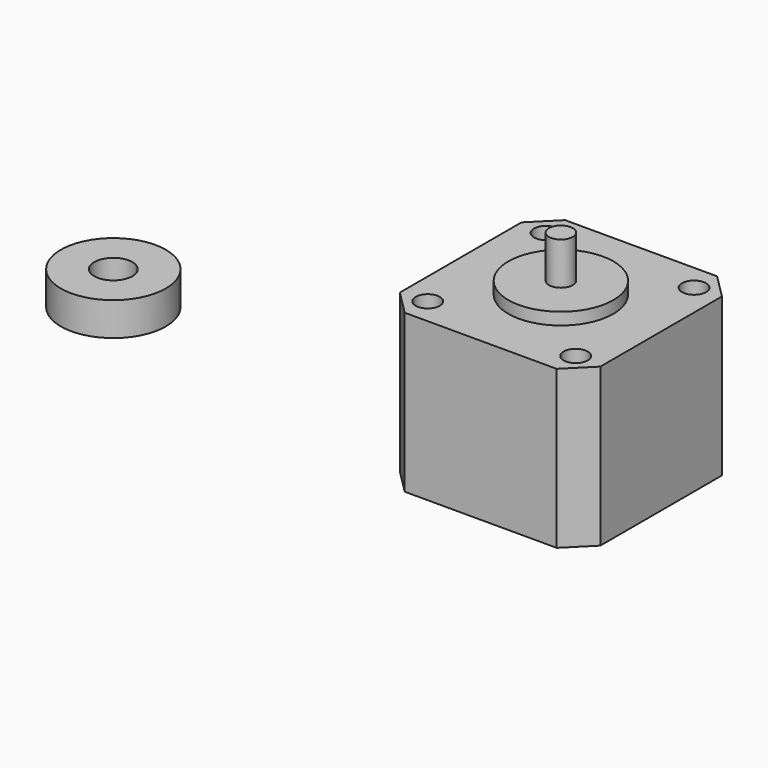
from build123d import *

# Parameters (mm, degrees)
F0_R     = 11
F0_R_2   = 4
F1_DEPTH = 7
F2_W     = 42
F2_H     = 42
F2_R     = 2.528972
F2_R_2   = 11
F3_DEPTH = 33.02
F2_R_3   = 2.5
F4_DEPTH = 35.56
F5_DEPTH = 44.45
F6_SIZE  = 5.08


with BuildPart() as f1:
    # F0 (on Top) → F1 (new body)
    with BuildSketch(Plane.XY):
        with Locations((-49.858671, 22.613496)):
            Circle(F0_R)
        with Locations((-49.858671, 22.613496)):
            Circle(F0_R_2, mode=Mode.SUBTRACT)
    extrude(amount=F1_DEPTH)


with BuildPart() as f3:
    # F2 (on Top) → F3 (new body)
    with BuildSketch(Plane.XY):
        with Locations((44.154914, 22.30631)):
            Rectangle(F2_W, F2_H)
        with Locations((28.654914, 6.80631)):
            Circle(F2_R, mode=Mode.SUBTRACT)
        with Locations((59.654914, 6.80631)):
            Circle(F2_R, mode=Mode.SUBTRACT)
        with Locations((28.654914, 37.80631)):
            Circle(F2_R, mode=Mode.SUBTRACT)
        with Locations((44.154914, 22.30631)):
            Circle(F2_R_2, mode=Mode.SUBTRACT)
        with Locations((59.654914, 37.80631)):
            Circle(F2_R, mode=Mode.SUBTRACT)
    extrude(amount=F3_DEPTH)

    # F2 (on Top) → F4 (join)
    with BuildSketch(Plane.XY):
        with Locations((44.154914, 22.30631)):
            Circle(F2_R_2)
        with Locations((44.154914, 22.30631)):
            Circle(F2_R_3, mode=Mode.SUBTRACT)
    extrude(amount=F4_DEPTH)

    # F2 (on Top) → F5 (join)
    with BuildSketch(Plane.XY):
        with Locations((44.154914, 22.30631)):
            Circle(F2_R_3)
    extrude(amount=F5_DEPTH)

    # F6
    f6_edges = [f3.edges().sort_by_distance(p)[0] for p in [
        (23.154914, 43.30631, 16.51),
        (23.154914, 1.30631, 16.51),
        (65.154914, 1.30631, 16.51),
        (65.154914, 43.30631, 16.51),
    ]]
    chamfer(f6_edges, length=F6_SIZE)


solid = Compound([f1.part, f3.part])
